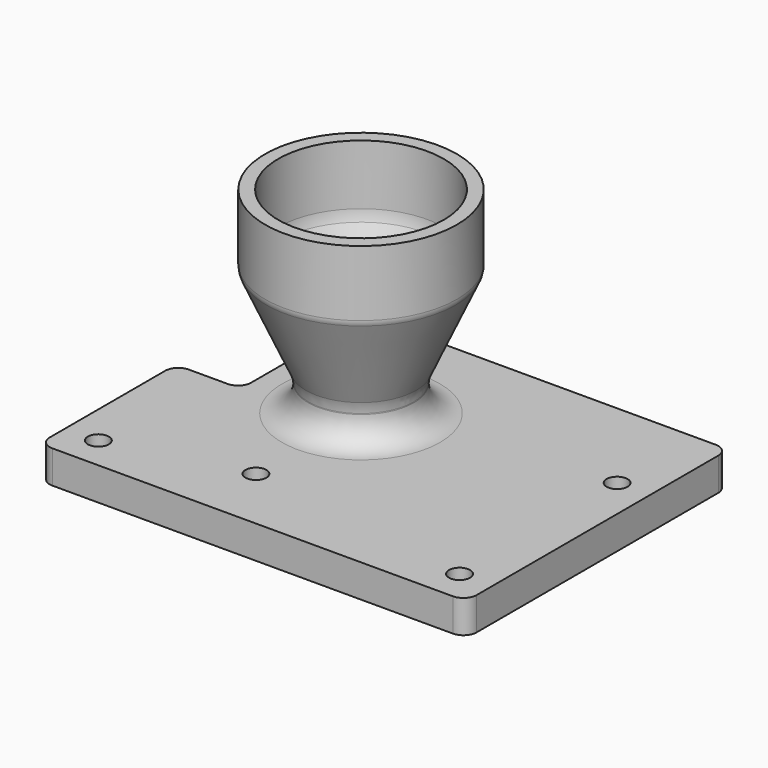
from build123d import *

# Parameters (mm, degrees)
F0_R     = 2.032
F0_R_2   = 7.7573632
F1_DEPTH = 6.35
F3_R     = 10.2235
F3_R_2   = 7.7573632
F4_DEPTH = 6.35
F6_R     = 18.5400007717
F6_R_2   = 16
F7_DEPTH = 12.7
F13_R    = 5.08


with BuildPart() as f1:
    # F0 (on Top) → F1 (new body)
    with BuildSketch(Plane.XY):
        with BuildLine():
            Line((-41.275, -1.3013436), (-41.275, -29.21))
            ThreePointArc((-41.275, -29.21), (-40.5310512242, -31.0060512242), (-38.735, -31.75))
            Line((-38.735, -31.75), (38.735, -31.75))
            ThreePointArc((38.735, -31.75), (40.5310512242, -31.0060512242), (41.275, -29.21))
            Line((41.275, -29.21), (41.275, 29.21))
            ThreePointArc((41.275, 29.21), (40.5310512242, 31.0060512242), (38.735, 31.75))
            Line((38.735, 31.75), (-26.1691374, 31.75))
            ThreePointArc((-26.1691374, 31.75), (-27.9651886242, 31.0060512242), (-28.7091374, 29.21))
            Line((-28.7091374, 29.21), (-28.7091374, 3.7786564))
            ThreePointArc((-28.7091374, 3.7786564), (-29.4530861758, 1.9826051758), (-31.2491374, 1.2386564))
            Line((-31.2491374, 1.2386564), (-38.735, 1.2386564))
            ThreePointArc((-38.735, 1.2386564), (-40.5310512242, 0.4947076242), (-41.275, -1.3013436))
        make_face()
        with Locations((-34.925, -25.4)):
            Circle(F0_R, mode=Mode.SUBTRACT)
        with Locations((-9.525, -19.05)):
            Circle(F0_R, mode=Mode.SUBTRACT)
        with Locations((34.925, -25.4)):
            Circle(F0_R, mode=Mode.SUBTRACT)
        with Locations((-9.525, 6.35)):
            Circle(F0_R_2, mode=Mode.SUBTRACT)
        with Locations((34.925, 12.7)):
            Circle(F0_R, mode=Mode.SUBTRACT)
    extrude(amount=F1_DEPTH)

    # F3 (on face) → F4 (join)
    with BuildSketch(Plane.XY.offset(6.35)):
        with Locations((-9.525, 6.35)):
            Circle(F3_R)
        with Locations((-9.525, 6.35)):
            Circle(F3_R_2, mode=Mode.SUBTRACT)
    extrude(amount=F4_DEPTH)



with BuildPart() as f7:
    # F6 (on offset) → F7 (new body)
    with BuildSketch(Plane.XY.offset(31.75)):
        with Locations((-9.525, 6.35)):
            Circle(F6_R)
        with Locations((-9.525, 6.35)):
            Circle(F6_R_2, mode=Mode.SUBTRACT)
    extrude(amount=F7_DEPTH)


with BuildPart() as f1_1:
    add(f1.part)

    add(f7.part)  # F12 merges F7
    # F11 (on 3pt) → F12 (revolve)
    with BuildSketch(Plane.XZ.offset(-6.35)):
        with BuildLine():
            Line((9.0150007717, 31.75), (6.475, 31.75))
            Line((6.475, 31.75), (-1.5546870253, 13.7024863815))
            ThreePointArc((-1.5546870253, 13.7024863815), (-1.7138119778, 13.2124272026), (-1.7676368, 12.7))
            Line((-1.7676368, 12.7), (0.6985, 12.7))
            Line((0.6985, 12.7), (8.7917948258, 30.7088152634))
            ThreePointArc((8.7917948258, 30.7088152634), (8.9585724839, 31.2175794543), (9.0150007717, 31.75))
        make_face()
    revolve(axis=Axis((-9.525, 6.35, 28.575), (0, 0, -1)))

    # F13
    f13_edges = [f1_1.edges().sort_by_distance(p)[0] for p in [
        (-19.7485, 6.35, 12.7),
        (-19.7485, 6.35, 6.35),
        (-25.525, 6.35, 31.75),
    ]]
    fillet(f13_edges, radius=F13_R)


solid = f1_1.part
